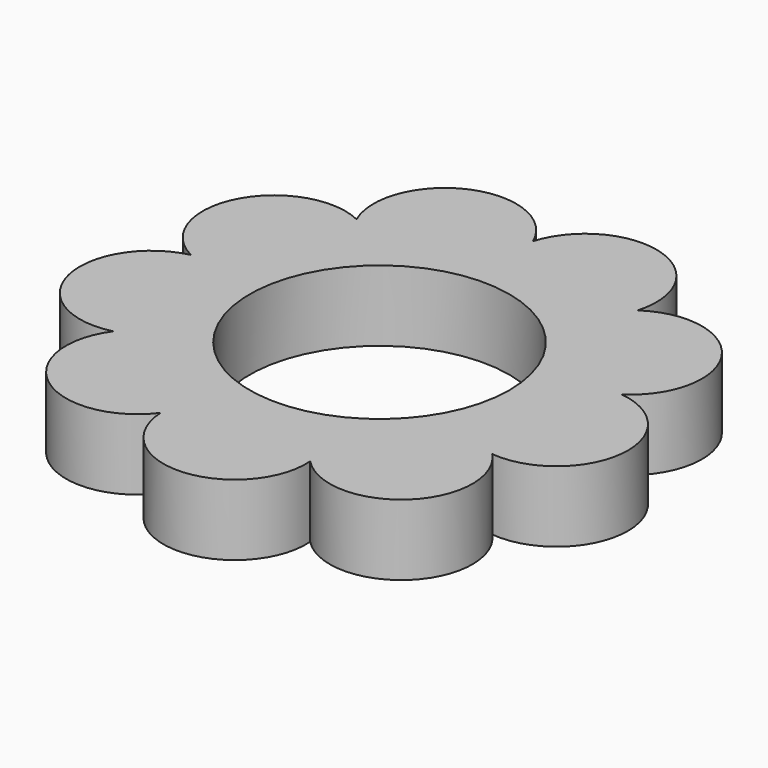
from build123d import *

# Parameters (mm, degrees)
F0_R     = 11
F1_DEPTH = 6


with BuildPart() as f1:
    # F0 (on Top) → F1 (new body)
    with BuildSketch(Plane.XY):
        Polygon((7.073214, -16.186111), (15.822628, -7.852706), (17.168459, 4.155068), (10.480977, 14.218639), (-1.110671, 17.629151), (-12.182623, 12.790788), (-17.554191, 1.967472), (-14.711957, -9.776445), (-4.985835, -16.945855), align=None)
        Circle(F0_R, mode=Mode.SUBTRACT)
        with BuildLine():
            Line((-1.110671, 17.629151), (10.480977, 14.218639))
            ThreePointArc((10.480977, 14.218639), (6.384937, 21.70112), (-1.110671, 17.629151))
        make_face()
        with BuildLine():
            Line((-12.182623, 12.790788), (-1.110671, 17.629151))
            ThreePointArc((-1.110671, 17.629151), (-9.075927, 20.769053), (-12.182623, 12.790788))
        make_face()
        with BuildLine():
            ThreePointArc((-12.182623, 12.790788), (-20.230056, 10.040095), (-17.554191, 1.967472))
            Line((-17.554191, 1.967472), (-12.182623, 12.790788))
        make_face()
        with BuildLine():
            ThreePointArc((-17.554191, 1.967472), (-22.074538, -5.342424), (-14.711957, -9.776445))
            Line((-14.711957, -9.776445), (-17.554191, 1.967472))
        make_face()
        with BuildLine():
            ThreePointArc((-14.711957, -9.776445), (-13.416859, -18.201498), (-4.985835, -16.945855))
            Line((-4.985835, -16.945855), (-14.711957, -9.776445))
        make_face()
        with BuildLine():
            ThreePointArc((-4.985835, -16.945855), (1.427821, -22.663122), (7.073214, -16.186111))
            Line((7.073214, -16.186111), (-4.985835, -16.945855))
        make_face()
        with BuildLine():
            ThreePointArc((7.073214, -16.186111), (15.593525, -16.371963), (15.822628, -7.852706))
            Line((15.822628, -7.852706), (7.073214, -16.186111))
        make_face()
        with BuildLine():
            Line((17.168459, 4.155068), (15.822628, -7.852706))
            ThreePointArc((15.822628, -7.852706), (22.472638, -2.518732), (17.168459, 4.155068))
        make_face()
        with BuildLine():
            Line((10.480977, 14.218639), (17.168459, 4.155068))
            ThreePointArc((17.168459, 4.155068), (18.911434, 12.567097), (10.480977, 14.218639))
        make_face()
    extrude(amount=F1_DEPTH)


solid = f1.part
